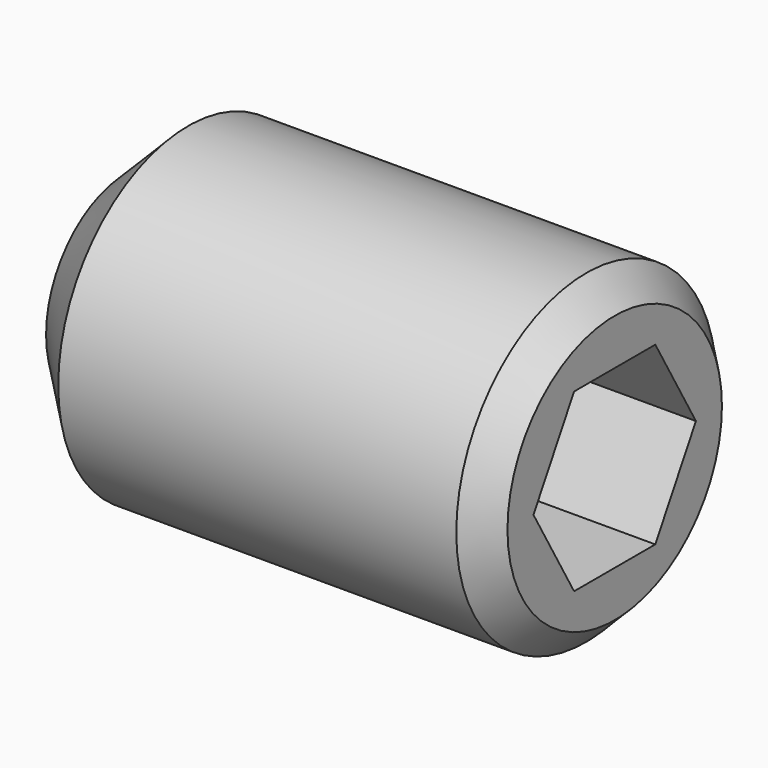
from build123d import *

# Parameters (mm, degrees)
SKETCH119_W             = 2
SKETCH119_H             = 6
POCKET017_DEPTH         = 2
CHAMFER006_SIZE         = 0.35
CHAMFER007_SIZE         = 0.75
BODY020_PLACEMENT_ANGLE = 90
BODY019_PLACEMENT_ANGLE = 90


with BuildPart() as part:
    # Sketch119 → Revolution002 (revolve)
    with BuildSketch(Plane.XZ):
        with Locations((-1, 3)):
            Rectangle(SKETCH119_W, SKETCH119_H)
    revolve(axis=Axis((0, 0, 0), (0, 0, 1)))

    # Sketch124 (on Face3 of Revolution002) → Pocket017 (cut)
    with BuildSketch(Plane(origin=(0, 0, 6), x_dir=(-1, 0, 0), z_dir=(0, 0, 1))):
        Polygon((-0.625, -1.0825317547), (0.625, -1.0825317547), (1.25, 0), (0.625, 1.0825317547), (-0.625, 1.0825317547), (-1.25, 0), align=None)
    extrude(amount=-POCKET017_DEPTH, mode=Mode.SUBTRACT)

    # Chamfer006
    chamfer006_edges = [part.edges().sort_by_distance(p)[0] for p in [
        (2, 0, 6),
    ]]
    chamfer(chamfer006_edges, length=CHAMFER006_SIZE)

    # Chamfer007
    chamfer007_edges = [part.edges().sort_by_distance(p)[0] for p in [
        (2, 0, 0),
    ]]
    chamfer(chamfer007_edges, length=CHAMFER007_SIZE)


with BuildPart() as part_1:
    # Body020 placement: moved
    add(part.part.moved(Location((0, -3, 4))).rotate(Axis((0, -3, 4), (1, 0, 0)), BODY020_PLACEMENT_ANGLE))


with BuildPart() as part_2:
    # Clone002 placement: moved
    add(part_1.part.moved(Location((0, -1, 0))))


with BuildPart() as part_3:
    # Body019 placement: moved
    add(part_2.part.moved(Location((-1, 0, 0))).rotate(Axis((-1, 0, 0), (0, 0, 1)), BODY019_PLACEMENT_ANGLE))


solid = part_3.part
